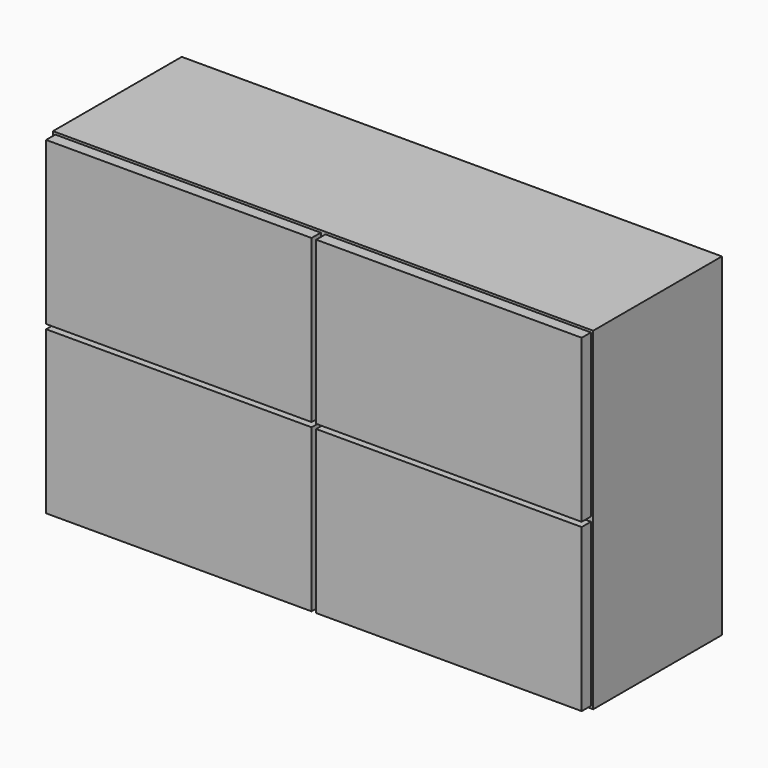
from build123d import *

# Parameters (mm, degrees)
F0_W     = 1193.8
F0_H     = 736.6
F1_DEPTH = 355.6
F2_W     = 586.74
F2_H     = 358.14
F3_DEPTH = 25.4


with BuildPart() as f1:
    # F0 (on Front) → F1 (new body)
    with BuildSketch(Plane.XZ):
        Rectangle(F0_W, F0_H)
    extrude(amount=F1_DEPTH)

    # F2 (on face) → F3 (join)
    with BuildSketch(Plane.XZ.offset(355.6)):
        with Locations((298.45, 184.15)):
            Rectangle(F2_W, F2_H)
        with Locations((298.45, -184.15)):
            Rectangle(F2_W, F2_H)
        with Locations((-298.45, -184.15)):
            Rectangle(F2_W, F2_H)
        with Locations((-298.45, 184.15)):
            Rectangle(F2_W, F2_H)
    extrude(amount=F3_DEPTH)


solid = f1.part
